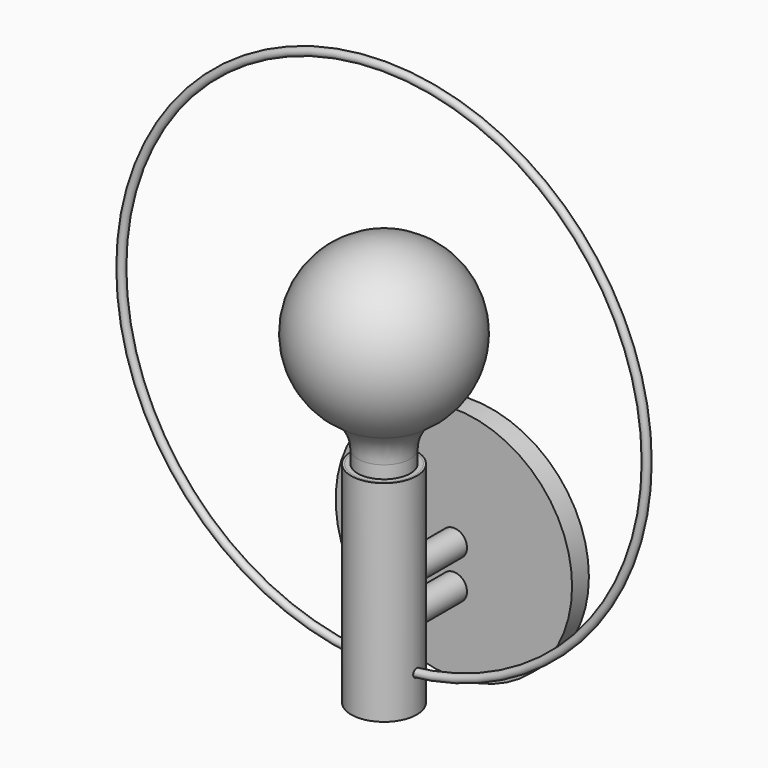
from build123d import *

# Parameters (mm, degrees)
F0_R          = 15.875
F0_R_2        = 14.859
F1_DEPTH      = 101.6
F2_DEPTH      = 21.59
F5_R          = 2.032
F6_DEPTH      = 39.6885
F6_DEPTH_BACK = 39.6885
F8_R          = 1.905
F13_R         = 6.35
F13_R_2       = 57.15
F15_DEPTH     = 10.16
F16_R         = 14.859
F17_DEPTH     = 48.5775
F19_DEPTH     = 29.21


with BuildPart() as f1:
    # F0 (on Top) → F1 (new body)
    with BuildSketch(Plane.XY):
        Circle(F0_R)
        Circle(F0_R_2, mode=Mode.SUBTRACT)
    extrude(amount=F1_DEPTH)


with BuildPart() as f2:
    # F0 (on Top) → F2 (new body)
    with BuildSketch(Plane.XY):
        Circle(F0_R_2)
    extrude(amount=F2_DEPTH)


with BuildPart() as f4:
    # F3 (on Front) → F4 (revolve)
    with BuildSketch(Plane.XZ):
        with BuildLine():
            Line((0, 76.2), (0, 196.85))
            ThreePointArc((0, 196.85), (-38.080543697, 168.3414913675), (-21.4527027027, 123.7726931273))
            ThreePointArc((-21.4527027027, 123.7726931273), (-15.0307593846, 116.8762754651), (-12.7, 107.7455858283))
            Line((-12.7, 107.7455858283), (-12.7, 76.2))
            Line((-12.7, 76.2), (0, 76.2))
        make_face()
    revolve(axis=Axis((0, 0, 136.525), (0, 0, -1)))


with BuildPart() as f6_tool:
    # F5 (on Right) → F6 (new body, two sides)
    with BuildSketch(Plane.YZ) as f6_sk:
        with Locations((0, 17.78)):
            Circle(F5_R)
    extrude(amount=-F6_DEPTH)
    extrude(f6_sk.sketch, amount=F6_DEPTH_BACK)


with BuildPart() as f1_1:
    add(f1.part)

    # F6: cut by f6_tool
    add(f6_tool.part, mode=Mode.SUBTRACT)


with BuildPart() as f2_1:
    add(f2.part)

    # F6: cut by f6_tool
    add(f6_tool.part, mode=Mode.SUBTRACT)


with BuildPart() as f9:
    # F9: sweep along a path in F7
    with BuildLine(Plane.XZ) as f9_path:
        CenterArc((0, 143.7839062312), 127, 0, 360)
    # F8 (on Right) → F9 (sweep)
    with BuildSketch(Plane.YZ):
        with Locations((0, 16.7839062312)):
            Circle(F8_R)
    sweep(path=f9_path.line)


with BuildPart() as f14:
    # F13 (on offset) → F14 (new body, up to the next surface of F1)
    with BuildSketch(Plane.XZ.offset(-42.2275)):
        with Locations((0, 50.8)):
            Circle(F13_R)
    extrude(until=Until.NEXT, target=f1_1.part)


with BuildPart() as f14b:
    # F13 (on offset) → F14, piece 2 (new body, up to the next surface of F1)
    with BuildSketch(Plane.XZ.offset(-42.2275)):
        with Locations((0, 32.0558585227)):
            Circle(F13_R)
    extrude(until=Until.NEXT, target=f1_1.part)


with BuildPart() as f15:
    # F13 (on offset) → F15 (new body)
    with BuildSketch(Plane.XZ.offset(-42.2275)):
        with Locations((0, 50.8)):
            Circle(F13_R_2)
        with Locations((0, 32.0558585227)):
            Circle(F13_R, mode=Mode.SUBTRACT)
        with Locations((0, 50.8)):
            Circle(F13_R, mode=Mode.SUBTRACT)
        with Locations((0, 32.0558585227)):
            Circle(F13_R)
        with Locations((0, 50.8)):
            Circle(F13_R)
    extrude(amount=-F15_DEPTH)


with BuildPart() as f17:
    # F16 (on face) → F17 (new body)
    with BuildSketch(Plane.XY.offset(101.6)):
        Circle(F16_R)
    extrude(amount=-F17_DEPTH)

    # F18 (on face) → F19 (join)
    with BuildSketch(Plane(origin=(0, 0, 53.0225), x_dir=(1, 0, 0), z_dir=(0, 0, -1))):
        Polygon((-7.4295, -3.96875), (-7.4295, 0), (-7.4295, 3.96875), (-8.4455, 3.96875), (-8.4455, -3.96875), align=None)
        Polygon((8.4455, 3.96875), (7.4295, 3.96875), (7.4295, 0), (7.4295, -3.96875), (8.4455, -3.96875), align=None)
    extrude(amount=F19_DEPTH)


solid = Compound([f4.part, f1_1.part, f2_1.part, f9.part, f14.part, f14b.part, f15.part, f17.part])
